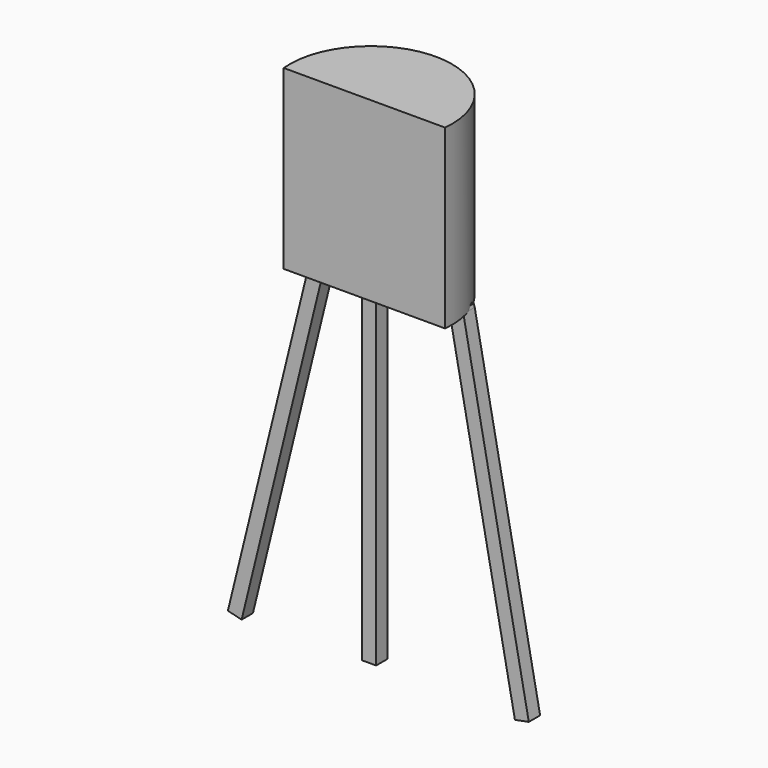
from build123d import *

# Parameters (mm, degrees)
F1_DEPTH = 12.7
F3_W     = 1.016
F3_H     = 24.269179
F4_DEPTH = 1.016


with BuildPart() as f1:
    # F0 (on Top) → F1 (new body)
    with BuildSketch(Plane.XY):
        with BuildLine():
            Line((-5.010411, 0), (6.576165, 0))
            ThreePointArc((6.576165, 0), (0.782877, 6.405338), (-5.010411, 0))
        make_face()
    extrude(amount=F1_DEPTH)


with BuildPart() as f4:
    # F3 (on offset) → F4 (new body)
    with BuildSketch(Plane.XZ.offset(-3.048)):
        Polygon((10.960273, -24.269179), (6.263014, 0), (6.199471, 0.219361), (5.265526, 0.219361), (5.265526, -0.193062), (9.962785, -24.462241), align=None)
        with Locations((-0.508, -12.134589)):
            Rectangle(F3_W, F3_H)
        Polygon((-4.601094, 0.205852), (-4.697257, 0), (-10.647126, -24.269179), (-9.660348, -24.511098), (-3.710479, -0.24192), (-3.532893, 0.205852), align=None)
    extrude(amount=F4_DEPTH)


solid = Compound([f1.part, f4.part])
